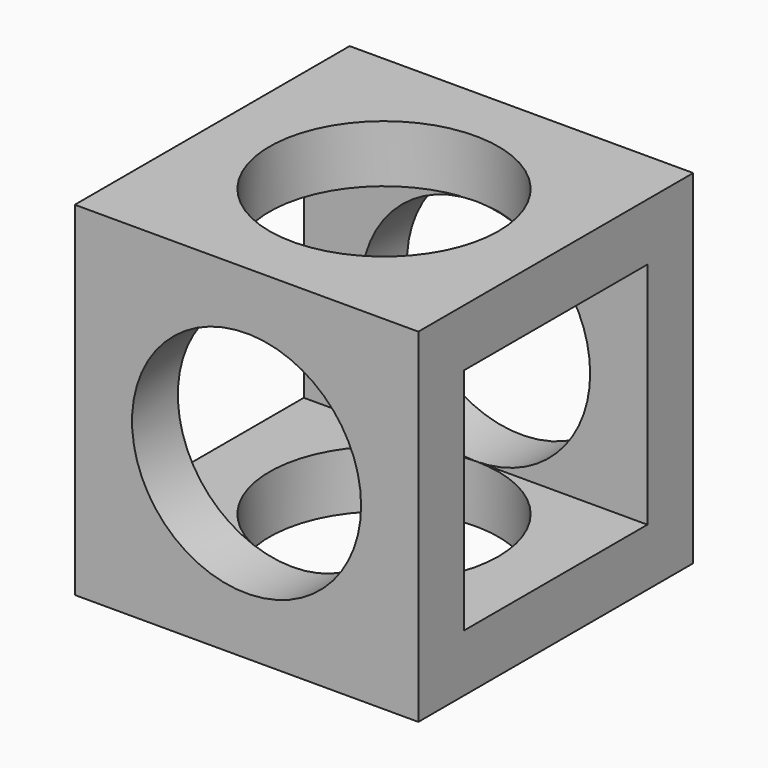
from build123d import *

# Parameters (mm, degrees)
F0_W     = 30
F0_H     = 30
F0_W_2   = 20
F0_H_2   = 20
F1_DEPTH = 30
F2_R     = 10
F3_DEPTH = 30.001
F4_R     = 10
F5_DEPTH = 30.001


with BuildPart() as f1:
    # F0 (on Right) → F1 (new body)
    with BuildSketch(Plane.YZ):
        Rectangle(F0_W, F0_H)
        Rectangle(F0_W_2, F0_H_2, mode=Mode.SUBTRACT)
    extrude(amount=F1_DEPTH)

    # F2 (on face) → F3 (cut, through all)
    with BuildSketch(Plane.XZ.offset(15)):
        with Locations((15, 0)):
            Circle(F2_R)
    extrude(amount=-F3_DEPTH, mode=Mode.SUBTRACT)

    # F4 (on face) → F5 (cut, through all)
    with BuildSketch(Plane.XY.offset(15)):
        with Locations((15, 0)):
            Circle(F4_R)
    extrude(amount=-F5_DEPTH, mode=Mode.SUBTRACT)


solid = f1.part
